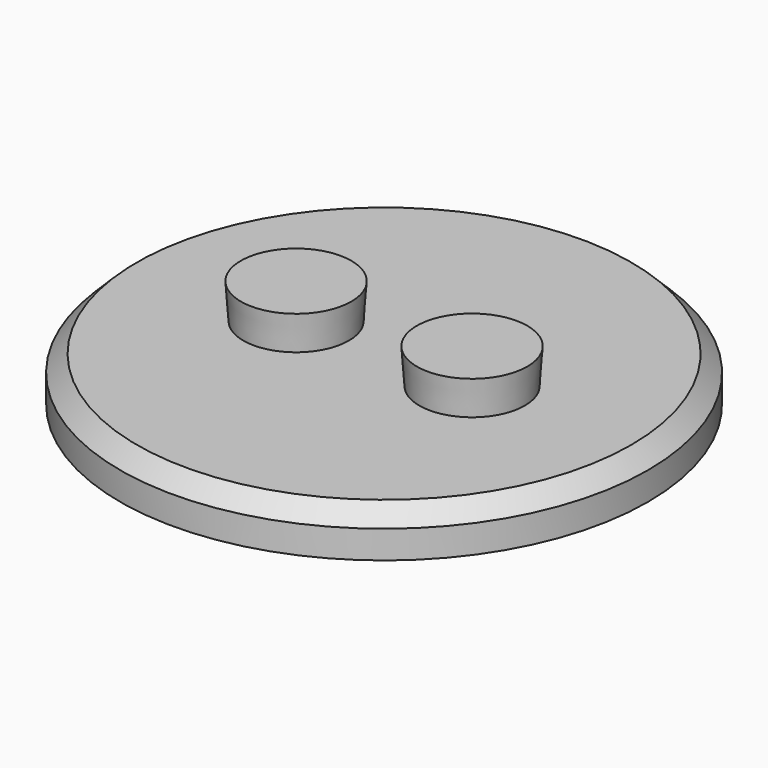
from build123d import *

# Parameters (mm, degrees)
F0_R     = 12
F1_DEPTH = 2.032
F2_SIZE  = 0.762
F3_R     = 2.4
F4_DEPTH = 1.6
F4_TAPER = -4


with BuildPart() as f1:
    # F0 (on Top) → F1 (new body)
    with BuildSketch(Plane.XY):
        Circle(F0_R)
    extrude(amount=F1_DEPTH)

    # F2
    f2_edges = [f1.edges().sort_by_distance(p)[0] for p in [
        (-12, 0, 2.032),
    ]]
    chamfer(f2_edges, length=F2_SIZE)

    # F3 (on face) → F4 (join)
    with BuildSketch(Plane.XY.offset(2.032)):
        with Locations((4, 0)):
            Circle(F3_R)
        with Locations((-4, 0)):
            Circle(F3_R)
    extrude(amount=F4_DEPTH, taper=F4_TAPER)


solid = f1.part
